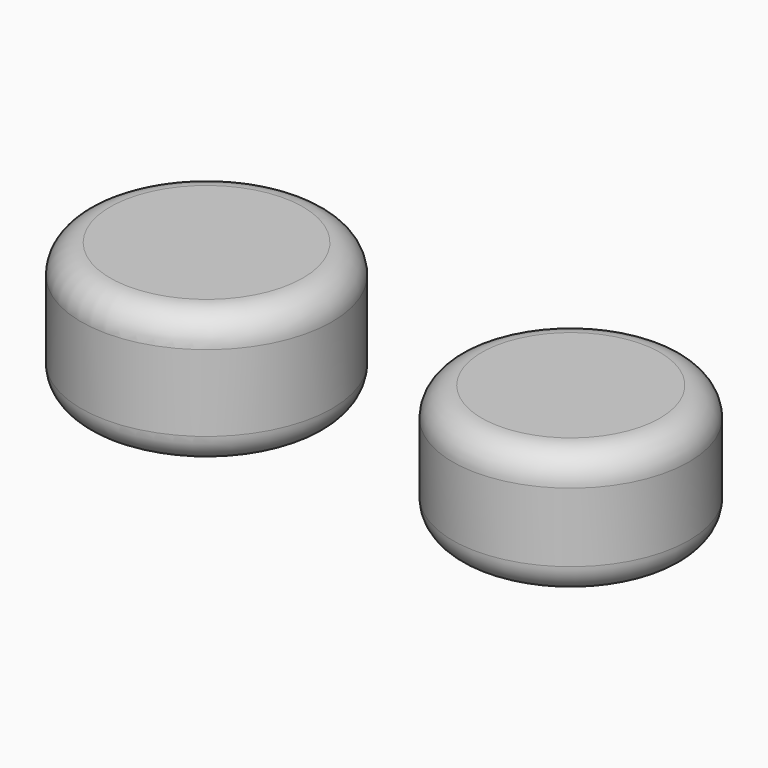
from build123d import *

# Parameters (mm, degrees)
F0_R     = 34.5
F1_DEPTH = 37
F0_R_2   = 32.5
F2_DEPTH = 35
F3_R     = 8
F3_2_R   = 8


with BuildPart() as f1:
    # F0 (on Top) → F1 (new body)
    with BuildSketch(Plane.XY):
        with Locations((-73.358402, 0)):
            Circle(F0_R)
    extrude(amount=F1_DEPTH)

    # F3
    f3_edges = [f1.edges().sort_by_distance(p)[0] for p in [
        (-107.858402, 0, 37),
        (-107.858402, 0, 0),
    ]]
    fillet(f3_edges, radius=F3_R)


with BuildPart() as f2:
    # F0 (on Top) → F2 (new body)
    with BuildSketch(Plane.XY):
        with Locations((26.794609, 0)):
            Circle(F0_R_2)
    extrude(amount=F2_DEPTH)

    # F3#2
    f3_2_edges = [f2.edges().sort_by_distance(p)[0] for p in [
        (-5.705391, 0, 0),
        (-5.705391, 0, 35),
    ]]
    fillet(f3_2_edges, radius=F3_2_R)


solid = Compound([f1.part, f2.part])
